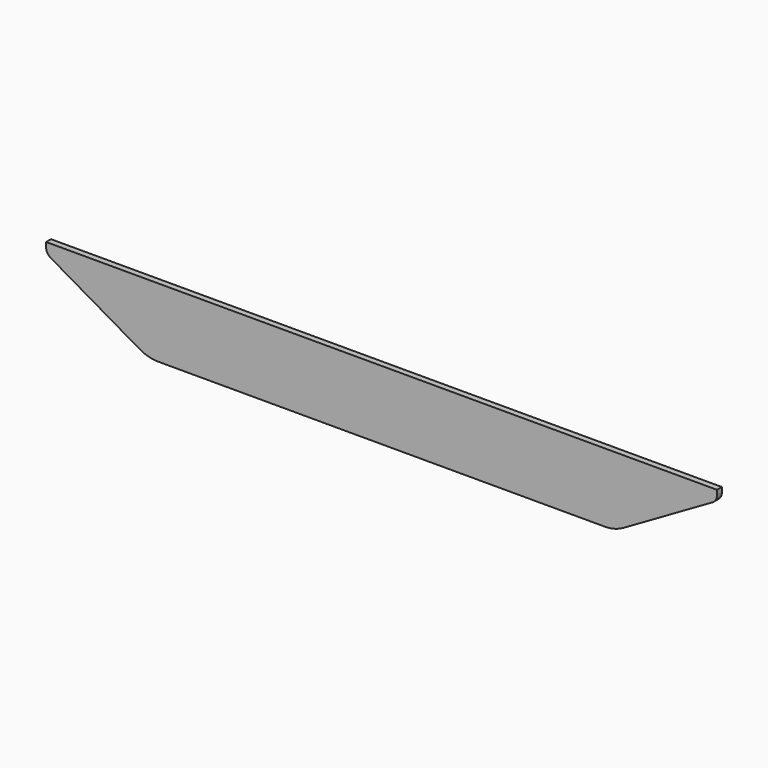
from build123d import *

# Parameters (mm, degrees)
PAD_DEPTH = 1.328


with BuildPart() as part:
    # Sketch → Pad (new body, symmetric)
    with BuildSketch(Plane.XZ):
        with BuildLine():
            Line((-78.011172, 0), (214, 0))
            Line((214, 0), (214, -2))
            ThreePointArc((212, -5.464102), (213.464102, -4), (214, -2))
            Line((212, -5.464102), (173.21539, -27.856406))
            ThreePointArc((165.21539, -30), (169.356495, -29.454813), (173.21539, -27.856406))
            Line((165.21539, -30), (-29.226562, -30))
            ThreePointArc((-37.226562, -27.856406), (-33.367667, -29.454813), (-29.226562, -30))
            Line((-37.226562, -27.856406), (-76.011172, -5.464102))
            ThreePointArc((-78.011172, -2), (-77.475274, -4), (-76.011172, -5.464102))
            Line((-78.011172, -2), (-78.011172, 0))
        make_face()
    extrude(amount=PAD_DEPTH, both=True)


solid = part.part
